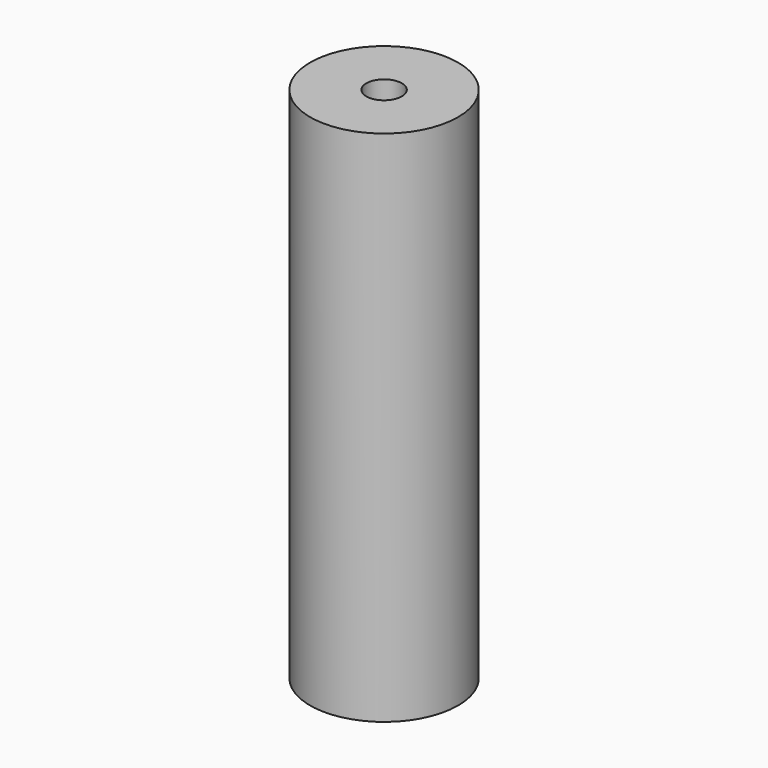
from build123d import *

# Parameters (mm, degrees)
SKETCH_R     = 5
PAD_DEPTH    = 35
SKETCH001_R  = 1.2
POCKET_DEPTH = 35


with BuildPart() as part:
    # Sketch → Pad (new body)
    with BuildSketch(Plane.XY):
        Circle(SKETCH_R)
    extrude(amount=PAD_DEPTH)

    # Sketch001 (on Face3 of Pad) → Pocket (cut)
    with BuildSketch(Plane.XY.offset(35)):
        Circle(SKETCH001_R)
    extrude(amount=-POCKET_DEPTH, mode=Mode.SUBTRACT)


solid = part.part
